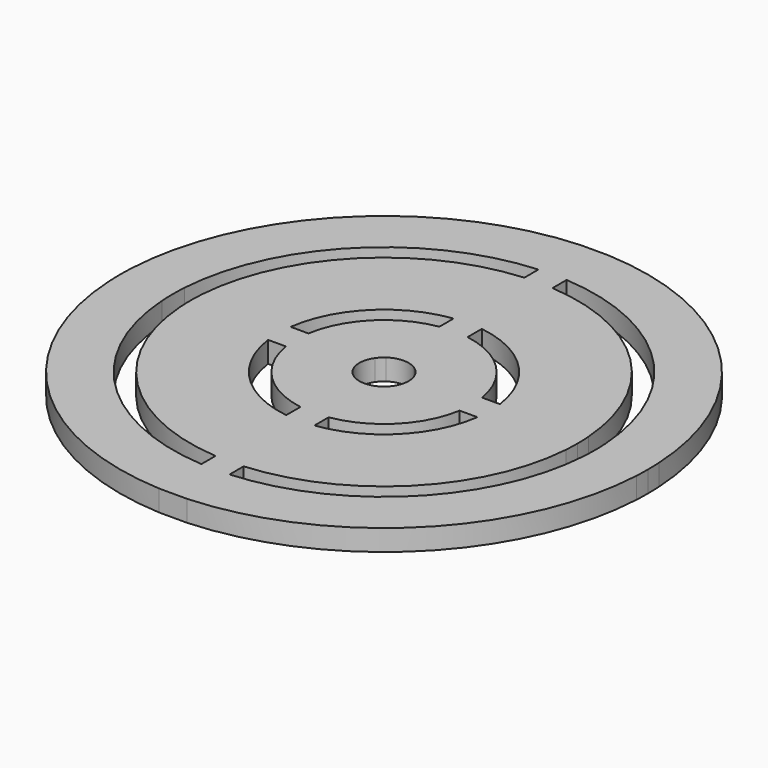
from build123d import *

# Parameters (mm, degrees)
F1_DEPTH = 3


with BuildPart() as f1:
    # F0 (on Top) → F1 (new body)
    with BuildSketch(Plane.XY):
        with BuildLine():
            Line((-2, 29.9332590942), (-2, 37.4466286867))
            ThreePointArc((-2, 37.4466286867), (-26.5165042945, 26.5165042945), (-37.4466286867, 2))
            Line((-37.4466286867, 2), (-29.9332590942, 2))
            ThreePointArc((-29.9332590942, 2), (-21.2132034356, 21.2132034356), (-2, 29.9332590942))
        make_face()
        with BuildLine():
            Line((-29.9332590942, -2), (-37.4466286867, -2))
            ThreePointArc((-37.4466286867, -2), (-26.5165042945, -26.5165042945), (-2, -37.4466286867))
            Line((-2, -37.4466286867), (-2, -29.9332590942))
            ThreePointArc((-2, -29.9332590942), (-21.2132034356, -21.2132034356), (-29.9332590942, -2))
        make_face()
        with BuildLine():
            Line((-14.8660687473, -2), (-27.4271763038, -2))
            ThreePointArc((-27.4271763038, -2), (-19.4454364826, -19.4454364826), (-2, -27.4271763038))
            Line((-2, -27.4271763038), (-2, -14.8660687473))
            ThreePointArc((-2, -14.8660687473), (-10.6066017178, -10.6066017178), (-14.8660687473, -2))
        make_face()
        with BuildLine():
            Line((-2, 14.8660687473), (-2, 27.4271763038))
            ThreePointArc((-2, 27.4271763038), (-19.4454364826, 19.4454364826), (-27.4271763038, 2))
            Line((-27.4271763038, 2), (-14.8660687473, 2))
            ThreePointArc((-14.8660687473, 2), (-10.6066017178, 10.6066017178), (-2, 14.8660687473))
        make_face()
        with BuildLine():
            ThreePointArc((27.4271763038, 2), (19.4454364826, 19.4454364826), (2, 27.4271763038))
            Line((2, 27.4271763038), (2, 14.8660687473))
            ThreePointArc((2, 14.8660687473), (10.6066017178, 10.6066017178), (14.8660687473, 2))
            Line((14.8660687473, 2), (27.4271763038, 2))
        make_face()
        with BuildLine():
            ThreePointArc((2, -27.4271763038), (19.4454364826, -19.4454364826), (27.4271763038, -2))
            Line((27.4271763038, -2), (14.8660687473, -2))
            ThreePointArc((14.8660687473, -2), (10.6066017178, -10.6066017178), (2, -14.8660687473))
            Line((2, -14.8660687473), (2, -27.4271763038))
        make_face()
        with BuildLine():
            ThreePointArc((2, -37.4466286867), (26.5165042945, -26.5165042945), (37.4466286867, -2))
            Line((37.4466286867, -2), (29.9332590942, -2))
            ThreePointArc((29.9332590942, -2), (21.2132034356, -21.2132034356), (2, -29.9332590942))
            Line((2, -29.9332590942), (2, -37.4466286867))
        make_face()
        with BuildLine():
            ThreePointArc((37.4466286867, 2), (26.5165042945, 26.5165042945), (2, 37.4466286867))
            Line((2, 37.4466286867), (2, 29.9332590942))
            ThreePointArc((2, 29.9332590942), (21.2132034356, 21.2132034356), (29.9332590942, 2))
            Line((29.9332590942, 2), (37.4466286867, 2))
        make_face()
        with BuildLine():
            Line((2, 14.8660687473), (2, 27.4271763038))
            ThreePointArc((2, 27.4271763038), (0, 27.5), (-2, 27.4271763038))
            Line((-2, 27.4271763038), (-2, 14.8660687473))
            ThreePointArc((-2, 14.8660687473), (0, 15), (2, 14.8660687473))
        make_face()
        with BuildLine():
            Line((2, 27.4271763038), (2, 29.9332590942))
            ThreePointArc((2, 29.9332590942), (0, 30), (-2, 29.9332590942))
            Line((-2, 29.9332590942), (-2, 27.4271763038))
            ThreePointArc((-2, 27.4271763038), (0, 27.5), (2, 27.4271763038))
        make_face()
        with BuildLine():
            Line((2, 29.9332590942), (2, 37.4466286867))
            Line((2, 37.4466286867), (-2, 37.4466286867))
            Line((-2, 37.4466286867), (-2, 29.9332590942))
            ThreePointArc((-2, 29.9332590942), (0, 30), (2, 29.9332590942))
        make_face()
        with BuildLine():
            Line((2, 12.3389626793), (2, 14.8660687473))
            ThreePointArc((2, 14.8660687473), (0, 15), (-2, 14.8660687473))
            Line((-2, 14.8660687473), (-2, 12.3389626793))
            ThreePointArc((-2, 12.3389626793), (0, 12.5), (2, 12.3389626793))
        make_face()
        with BuildLine():
            Line((2, 2.8722813233), (2, 12.3389626793))
            ThreePointArc((2, 12.3389626793), (0, 12.5), (-2, 12.3389626793))
            Line((-2, 12.3389626793), (-2, 2.8722813233))
            ThreePointArc((-2, 2.8722813233), (0, 3.5), (2, 2.8722813233))
        make_face()
        with BuildLine():
            Line((-2.8722813233, 2), (-12.3389626793, 2))
            ThreePointArc((-12.3389626793, 2), (-12.5, 0), (-12.3389626793, -2))
            Line((-12.3389626793, -2), (-2.8722813233, -2))
            ThreePointArc((-2.8722813233, -2), (-3.5, 0), (-2.8722813233, 2))
        make_face()
        with BuildLine():
            Line((-14.8660687473, 2), (-27.4271763038, 2))
            ThreePointArc((-27.4271763038, 2), (-27.5, 0), (-27.4271763038, -2))
            Line((-27.4271763038, -2), (-14.8660687473, -2))
            ThreePointArc((-14.8660687473, -2), (-15, 0), (-14.8660687473, 2))
        make_face()
        with BuildLine():
            Line((-12.3389626793, 2), (-14.8660687473, 2))
            ThreePointArc((-14.8660687473, 2), (-15, 0), (-14.8660687473, -2))
            Line((-14.8660687473, -2), (-12.3389626793, -2))
            ThreePointArc((-12.3389626793, -2), (-12.5, 0), (-12.3389626793, 2))
        make_face()
        with BuildLine():
            Line((-2, 2.8722813233), (-2, 12.3389626793))
            ThreePointArc((-2, 12.3389626793), (-8.8388347648, 8.8388347648), (-12.3389626793, 2))
            Line((-12.3389626793, 2), (-2.8722813233, 2))
            ThreePointArc((-2.8722813233, 2), (-2.4748737342, 2.4748737342), (-2, 2.8722813233))
        make_face()
        with BuildLine():
            Line((-2.8722813233, -2), (-12.3389626793, -2))
            ThreePointArc((-12.3389626793, -2), (-8.8388347648, -8.8388347648), (-2, -12.3389626793))
            Line((-2, -12.3389626793), (-2, -2.8722813233))
            ThreePointArc((-2, -2.8722813233), (-2.4748737342, -2.4748737342), (-2.8722813233, -2))
        make_face()
        with BuildLine():
            ThreePointArc((12.3389626793, 2), (8.8388347648, 8.8388347648), (2, 12.3389626793))
            Line((2, 12.3389626793), (2, 2.8722813233))
            ThreePointArc((2, 2.8722813233), (2.4748737342, 2.4748737342), (2.8722813233, 2))
            Line((2.8722813233, 2), (12.3389626793, 2))
        make_face()
        with BuildLine():
            ThreePointArc((2, -12.3389626793), (8.8388347648, -8.8388347648), (12.3389626793, -2))
            Line((12.3389626793, -2), (2.8722813233, -2))
            ThreePointArc((2.8722813233, -2), (2.4748737342, -2.4748737342), (2, -2.8722813233))
            Line((2, -2.8722813233), (2, -12.3389626793))
        make_face()
        with BuildLine():
            Line((-2, -2.8722813233), (-2, -12.3389626793))
            ThreePointArc((-2, -12.3389626793), (0, -12.5), (2, -12.3389626793))
            Line((2, -12.3389626793), (2, -2.8722813233))
            ThreePointArc((2, -2.8722813233), (0, -3.5), (-2, -2.8722813233))
        make_face()
        with BuildLine():
            Line((-2, -12.3389626793), (-2, -14.8660687473))
            ThreePointArc((-2, -14.8660687473), (0, -15), (2, -14.8660687473))
            Line((2, -14.8660687473), (2, -12.3389626793))
            ThreePointArc((2, -12.3389626793), (0, -12.5), (-2, -12.3389626793))
        make_face()
        with BuildLine():
            Line((-2, -14.8660687473), (-2, -27.4271763038))
            ThreePointArc((-2, -27.4271763038), (0, -27.5), (2, -27.4271763038))
            Line((2, -27.4271763038), (2, -14.8660687473))
            ThreePointArc((2, -14.8660687473), (0, -15), (-2, -14.8660687473))
        make_face()
        with BuildLine():
            Line((-2, -29.9332590942), (-2, -37.4466286867))
            Line((-2, -37.4466286867), (2, -37.4466286867))
            Line((2, -37.4466286867), (2, -29.9332590942))
            ThreePointArc((2, -29.9332590942), (0, -30), (-2, -29.9332590942))
        make_face()
        with BuildLine():
            Line((-2, -27.4271763038), (-2, -29.9332590942))
            ThreePointArc((-2, -29.9332590942), (0, -30), (2, -29.9332590942))
            Line((2, -29.9332590942), (2, -27.4271763038))
            ThreePointArc((2, -27.4271763038), (0, -27.5), (-2, -27.4271763038))
        make_face()
        with BuildLine():
            ThreePointArc((15, 0), (14.9664797332, 1.0022396895), (14.8660687473, 2))
            Line((14.8660687473, 2), (12.3389626793, 2))
            ThreePointArc((12.3389626793, 2), (12.4596756276, 1.0032363902), (12.5, 0))
            ThreePointArc((12.5, 0), (12.4596756276, -1.0032363902), (12.3389626793, -2))
            Line((12.3389626793, -2), (14.8660687473, -2))
            ThreePointArc((14.8660687473, -2), (14.9664797332, -1.0022396895), (15, 0))
        make_face()
        with BuildLine():
            ThreePointArc((12.5, 0), (12.4596756276, 1.0032363902), (12.3389626793, 2))
            Line((12.3389626793, 2), (2.8722813233, 2))
            ThreePointArc((2.8722813233, 2), (3.3393850206, 1.0480971731), (3.5, 0))
            ThreePointArc((3.5, 0), (3.3393850206, -1.0480971731), (2.8722813233, -2))
            Line((2.8722813233, -2), (12.3389626793, -2))
            ThreePointArc((12.3389626793, -2), (12.4596756276, -1.0032363902), (12.5, 0))
        make_face()
        with BuildLine():
            ThreePointArc((27.5, 0), (27.4817880455, 1.0006626918), (27.4271763038, 2))
            Line((27.4271763038, 2), (14.8660687473, 2))
            ThreePointArc((14.8660687473, 2), (14.9664797332, 1.0022396895), (15, 0))
            ThreePointArc((15, 0), (14.9664797332, -1.0022396895), (14.8660687473, -2))
            Line((14.8660687473, -2), (27.4271763038, -2))
            ThreePointArc((27.4271763038, -2), (27.4817880455, -1.0006626918), (27.5, 0))
        make_face()
        with BuildLine():
            ThreePointArc((37.5, 0), (37.4866547971, 1.0003559988), (37.4466286867, 2))
            Line((37.4466286867, 2), (29.9332590942, 2))
            ThreePointArc((29.9332590942, 2), (29.983310131, 1.0005566386), (30, 0))
            ThreePointArc((30, 0), (29.983310131, -1.0005566386), (29.9332590942, -2))
            Line((29.9332590942, -2), (37.4466286867, -2))
            ThreePointArc((37.4466286867, -2), (37.4866547971, -1.0003559988), (37.5, 0))
        make_face()
        with BuildLine():
            Line((-29.9332590942, 2), (-37.4466286867, 2))
            ThreePointArc((-37.4466286867, 2), (-37.5, 0), (-37.4466286867, -2))
            Line((-37.4466286867, -2), (-29.9332590942, -2))
            ThreePointArc((-29.9332590942, -2), (-30, 0), (-29.9332590942, 2))
        make_face()
    extrude(amount=F1_DEPTH)


solid = f1.part
